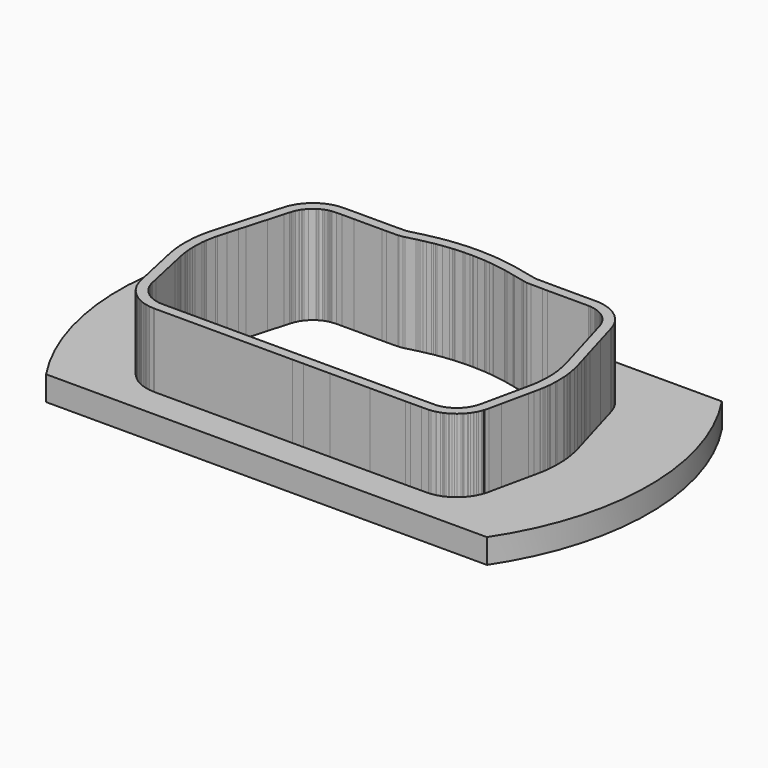
from build123d import *

# Parameters (mm, degrees)
F1_DEPTH      = 5
F4_DEPTH      = 15
F5_DEPTH      = 25
F5_DEPTH_BACK = 25


with BuildPart() as f1:
    # F0 (on Top) → F1 (new body)
    with BuildSketch(Plane.XY):
        with BuildLine():
            Line((45, 30), (-45, 30))
            ThreePointArc((-45, 30), (-54.083269, 0), (-45, -30))
            Line((-45, -30), (45, -30))
            ThreePointArc((45, -30), (54.083269, 0), (45, 30))
        make_face()
    extrude(amount=F1_DEPTH)

    # F3 (on face) → F4 (join)
    with BuildSketch(Plane.XY.offset(5)):
        Polygon((-12.60092, 22.138905), (-13.310995, 22.043471), (-13.332359, 22.039991), (-15.546923, 22.009637), (-16.384097, 22.009637), (-22.090473, 22.013957), (-24.582327, 22.007345), (-25.853259, 22.004321), (-26.724033, 21.917484), (-27.049024, 21.894111), (-27.232065, 21.847317), (-27.283138, 21.836102), (-27.300184, 21.835578), (-27.803103, 21.733435), (-28.070297, 21.644129), (-28.420332, 21.52278), (-28.458282, 21.510949), (-28.823392, 21.391112), (-28.984921, 21.310794), (-29.072821, 21.266532), (-29.606501, 20.988927), (-29.677556, 20.950866), (-29.999262, 20.785094), (-30.337829, 20.528452), (-31.418797, 19.643942), (-31.976757, 18.956358), (-32.101118, 18.823547), (-32.287643, 18.604502), (-32.432905, 18.374267), (-32.57652, 18.146484), (-32.664669, 18.01053), (-32.722842, 17.892029), (-33.016994, 17.287256), (-33.310402, 16.682682), (-33.310402, 16.564845), (-33.328683, 16.513175), (-33.417807, 16.246059), (-33.504949, 15.943516), (-33.8109, 14.88371), (-34.690118, 11.829793), (-35.866997, 7.751915), (-36.27223, 6.343472), (-36.886621, 4.212386), (-37.414571, 2.382691), (-37.439445, 2.283326), (-37.535228, 1.851419), (-37.893149, 0.001246), (-37.913034, -0.087596), (-37.95702, -0.475786), (-37.989425, -0.766086), (-38.04239, -1.2097), (-38.108503, -3.025887), (-38.113063, -3.803012), (-38.085983, -4.572638), (-38.014694, -5.296151), (-37.970828, -5.726282), (-37.941326, -5.994677), (-37.927461, -6.123931), (-37.713978, -7.431579), (-37.665919, -7.6683), (-37.595681, -7.987869), (-37.470707, -8.566062), (-37.243081, -9.611763), (-35.793155, -16.282583), (-35.515065, -17.553009), (-35.437628, -17.862784), (-35.333877, -18.277752), (-35.213138, -18.615774), (-34.839937, -19.554147), (-34.389786, -20.269069), (-34.384786, -20.275065), (-34.300934, -20.409107), (-34.144831, -20.696634), (-33.964377, -20.902126), (-33.820579, -21.074678), (-33.660296, -21.293073), (-33.446911, -21.520485), (-33.318595, -21.632725), (-33.006697, -21.906319), (-32.904517, -21.996245), (-32.472625, -22.376292), (-32.358305, -22.46342), (-32.205531, -22.586957), (-31.592125, -22.960739), (-31.454538, -23.032067), (-31.221001, -23.140381), (-31.178717, -23.159796), (-31.05996, -23.216266), (-31.01657, -23.240943), (-30.890059, -23.304199), (-30.197574, -23.597264), (-30.112211, -23.597264), (-29.756466, -23.719045), (-29.440156, -23.770647), (-29.077344, -23.846689), (-28.705857, -23.922278), (-27.927499, -23.981997), (-27.687002, -23.994139), (0.520208, -23.994139), (2.712736, -23.992768), (8.191312, -23.992768), (16.383828, -23.991396), (23.579418, -23.991396), (24.587477, -23.985826), (26.872509, -23.972049), (28.226396, -23.96244), (28.384645, -23.96244), (28.683799, -23.920677), (29.584692, -23.763884), (29.697036, -23.722437), (30.350476, -23.511768), (30.667225, -23.425079), (30.83143, -23.331309), (30.928474, -23.286483), (31.004242, -23.250342), (31.220227, -23.146167), (31.539814, -23.000385), (31.69379, -22.891802), (31.999622, -22.686187), (32.36683, -22.438993), (32.65733, -22.249482), (33.155648, -21.794709), (33.330286, -21.648721), (33.442787, -21.51872), (33.485288, -21.472625), (33.868754, -21.009788), (33.966028, -20.893552), (34.191374, -20.624184), (34.444603, -20.234075), (34.469946, -20.17796), (34.471845, -20.174824), (34.705318, -19.79885), (34.842586, -19.490269), (34.865037, -19.443605), (35.089958, -18.974131), (35.14484, -18.795384), (35.186551, -18.66795), (35.24356, -18.487427), (35.284793, -18.449631), (35.506507, -17.588403), (36.042095, -15.085369), (37.23584, -9.613986), (37.46239, -8.580617), (37.719338, -7.309642), (37.744883, -7.181718), (37.84351, -6.704793), (37.891183, -6.326253), (37.97485, -5.683211), (38.019005, -5.365921), (38.02944, -5.238612), (38.040282, -5.059044), (38.11391, -3.873954), (38.107191, -3.47815), (38.073728, -1.762468), (38.068615, -1.570749), (37.984162, -0.780461), (37.955884, -0.522243), (37.955884, -0.516706), (37.912138, -0.091753), (37.812454, 0.367634), (37.583915, 1.661058), (37.32446, 2.709912), (36.838691, 4.398703), (36.523604, 5.491957), (36.359398, 6.056001), (35.869499, 7.753015), (34.688365, 11.841773), (33.503769, 15.943291), (33.403281, 16.29264), (33.037754, 17.232804), (32.997103, 17.33922), (32.939275, 17.498248), (32.504276, 18.254853), (32.334984, 18.53679), (32.186263, 18.70572), (31.693187, 19.347598), (31.206632, 19.837201), (31.115018, 19.931678), (30.708688, 20.252793), (30.682393, 20.268428), (30.022078, 20.769572), (29.835633, 20.867329), (29.611669, 20.987401), (29.559315, 21.008343), (29.055621, 21.266747), (28.800632, 21.396778), (28.416597, 21.535057), (28.264739, 21.569322), (28.18451, 21.599232), (27.930691, 21.683224), (27.779606, 21.725664), (27.425424, 21.827531), (27.031993, 21.861098), (26.610718, 21.930657), (26.260681, 21.985519), (25.870123, 22.002081), (25.759933, 22.004557), (17.388073, 22.004557), (16.40499, 22.016638), (13.976908, 22.038593), (13.356625, 22.038593), (12.714592, 22.178708), (12.308552, 22.267981), (10.554909, 22.651844), (10.483616, 22.667672), (10.348982, 22.706665), (10.283916, 22.721452), (10.077728, 22.76776), (8.629278, 23.091105), (8.091992, 23.212427), (7.900544, 23.251552), (5.365324, 23.653787), (5.097514, 23.694365), (4.290946, 23.774016), (3.507211, 23.850416), (3.206544, 23.881071), (1.647876, 23.947946), (0.793376, 23.987781), (0.496354, 23.994313), (-0.020641, 23.99024), (-1.028194, 23.978761), (-1.520042, 23.972794), (-3.069552, 23.874177), (-3.358317, 23.868071), (-3.694416, 23.834323), (-4.251248, 23.772968), (-5.632386, 23.622782), (-6.631644, 23.464191), (-6.913525, 23.419884), (-7.367583, 23.34749), (-7.808181, 23.252481), (-8.962119, 23.006566), (-9.191898, 22.95808), (-9.773963, 22.849164), (-10.183014, 22.74631), (-10.518935, 22.662583), (-12.441825, 22.179872), align=None)
    extrude(amount=F4_DEPTH)

    # F2 (on face) → F5 (cut, two sides)
    with BuildSketch(Plane.XY.offset(5)) as f5_sk:
        Polygon((-13.135432, 20.045705), (-13.187807, 20.042911), (-13.216738, 20.041387), (-15.533218, 20.009637), (-16.384854, 20.009637), (-22.088577, 20.013955), (-24.577294, 20.007351), (-25.751409, 20.004557), (-26.540993, 19.925817), (-26.557529, 19.924293), (-26.727048, 19.912101), (-26.769771, 19.901179), (-26.928242, 19.866381), (-27.019174, 19.843267), (-27.06878, 19.841743), (-27.285137, 19.797801), (-27.425726, 19.750811), (-27.794991, 19.622795), (-27.848763, 19.606031), (-28.062352, 19.535927), (-28.089936, 19.522211), (-28.161564, 19.486143), (-28.672815, 19.220205), (-28.747263, 19.180327), (-28.929152, 19.086601), (-29.100043, 18.957061), (-29.994352, 18.225287), (-30.468418, 17.641087), (-30.608981, 17.490973), (-30.672354, 17.416551), (-30.741264, 17.307331), (-30.89148, 17.069079), (-30.921782, 17.022343), (-30.925897, 17.013961), (-31.218073, 16.413251), (-31.310402, 16.223005), (-31.310402, 16.221481), (-31.437199, 15.863087), (-31.507455, 15.652521), (-31.583249, 15.389377), (-31.889167, 14.329689), (-32.768362, 11.275847), (-33.945195, 7.198131), (-34.35035, 5.789955), (-34.964954, 3.658133), (-35.483089, 1.862455), (-35.492741, 1.823898), (-35.576789, 1.444904), (-35.935082, -0.407187), (-35.93785, -0.419557), (-35.96955, -0.699313), (-36.00262, -0.995578), (-36.046715, -1.364894), (-36.108716, -3.068142), (-36.112856, -3.773703), (-36.089438, -4.439285), (-36.024668, -5.096637), (-35.981945, -5.515559), (-35.953014, -5.778754), (-35.944734, -5.855945), (-35.746309, -7.07136), (-35.709098, -7.254646), (-35.641559, -7.561936), (-35.51616, -8.142097), (-35.288779, -9.186672), (-33.839099, -15.856356), (-33.567624, -17.096562), (-33.497342, -17.377715), (-33.417408, -17.697425), (-33.341615, -17.909616), (-33.049489, -18.644133), (-32.768362, -19.090615), (-32.761479, -19.09887), (-32.572681, -19.400672), (-32.494118, -19.545376), (-32.444512, -19.601866), (-32.24469, -19.841642), (-32.119291, -20.012508), (-32.055918, -20.080046), (-32.000774, -20.128281), (-31.686602, -20.403871), (-31.583249, -20.494828), (-31.204281, -20.828305), (-31.117464, -20.894472), (-31.116092, -20.895843), (-31.051322, -20.948218), (-30.610353, -21.216925), (-30.573116, -21.236229), (-30.382972, -21.324418), (-30.331969, -21.347836), (-30.134916, -21.441537), (-30.074311, -21.476005), (-30.052264, -21.487028), (-29.791787, -21.597264), (-29.779366, -21.597264), (-29.268141, -21.77227), (-29.073831, -21.80397), (-28.672815, -21.888018), (-28.428899, -21.93765), (-27.800554, -21.985859), (-27.636546, -21.994139), (0.519582, -21.994139), (2.71211, -21.992768), (8.191144, -21.992768), (16.38366, -21.991396), (23.573892, -21.991396), (24.575922, -21.985859), (26.859382, -21.972092), (28.219298, -21.96244), (28.245714, -21.96244), (28.373984, -21.944533), (29.062832, -21.824645), (29.088994, -21.814993), (29.112616, -21.809481), (29.779366, -21.594521), (29.89519, -21.562822), (29.914494, -21.551798), (30.078578, -21.476005), (30.139284, -21.447049), (30.370678, -21.335441), (30.539842, -21.258276), (30.5594, -21.244484), (30.88325, -21.026755), (31.261964, -20.771815), (31.428842, -20.662951), (31.83956, -20.288123), (31.923634, -20.217841), (31.951066, -20.186142), (31.979006, -20.15584), (32.331812, -19.730009), (32.432142, -19.610121), (32.579716, -19.433718), (32.684364, -19.272504), (32.69681, -19.244945), (32.766914, -19.129197), (32.933792, -18.860465), (32.9724, -18.773673), (32.980528, -18.747461), (33.062062, -18.577992), (33.221828, -18.244515), (33.238338, -18.190743), (33.282534, -18.055717), (33.49056, -17.396993), (33.49437, -17.377715), (33.495894, -17.376318), (33.559394, -17.129658), (34.087206, -14.662963), (35.282022, -9.186672), (35.505288, -8.168284), (35.758526, -6.915658), (35.784942, -6.783375), (35.869016, -6.376822), (35.90737, -6.072276), (35.992714, -5.416347), (36.030306, -5.146218), (36.03437, -5.096637), (36.044022, -4.936769), (36.112856, -3.828847), (36.107522, -3.514623), (36.074248, -1.808632), (36.071454, -1.703883), (35.995762, -0.995578), (35.965282, -0.717245), (35.955884, -0.627659), (35.955884, -0.619379), (35.93404, -0.407187), (35.849712, -0.018567), (35.626192, 1.246454), (35.392004, 2.193163), (34.91677, 3.845331), (34.602572, 4.935499), (34.438488, 5.499125), (33.948014, 7.198131), (32.766914, 11.286769), (31.582004, 15.389377), (31.506312, 15.652521), (31.17154, 16.513581), (31.123026, 16.640581), (31.118962, 16.651757), (30.779872, 17.241545), (30.713832, 17.351527), (30.640934, 17.434331), (30.18475, 18.028183), (29.779366, 18.436107), (29.771238, 18.444489), (29.57261, 18.601461), (29.563212, 18.607049), (28.945738, 19.075679), (28.898748, 19.100317), (28.765144, 19.171945), (28.730854, 19.185661), (28.671672, 19.215887), (28.144876, 19.486143), (28.004414, 19.557771), (27.85557, 19.611365), (27.75651, 19.633717), (27.694534, 19.647433), (27.520798, 19.712203), (27.345792, 19.770115), (27.232762, 19.801865), (27.06055, 19.851395), (26.78369, 19.875017), (26.292962, 19.956043), (26.062838, 19.992111), (25.805282, 20.003033), (25.737464, 20.004557), (17.375784, 20.004557), (16.38366, 20.016749), (13.967866, 20.038593), (13.215264, 20.038593), (13.14516, 20.044181), (13.110616, 20.048499), (13.058292, 20.056627), (12.28664, 20.225029), (11.879986, 20.314437), (10.124338, 20.698739), (9.988194, 20.728965), (9.848748, 20.769351), (9.84316, 20.770621), (9.640722, 20.816087), (8.191144, 21.139683), (7.67146, 21.257031), (7.543444, 21.283193), (5.058816, 21.677401), (4.849266, 21.709151), (4.095648, 21.783573), (3.308756, 21.860281), (3.062122, 21.885427), (1.558442, 21.949943), (0.724814, 21.988805), (0.482244, 21.994139), (-0.001372, 21.990329), (-1.004672, 21.978899), (-1.444346, 21.973565), (-2.984856, 21.875521), (-3.237078, 21.870187), (-3.484982, 21.845295), (-4.033622, 21.784843), (-5.367376, 21.639809), (-6.319622, 21.488679), (-6.6008, 21.444483), (-6.999072, 21.380983), (-7.388962, 21.296909), (-8.191094, 21.125967), (-8.192364, 21.124951), (-8.801456, 20.996427), (-9.345778, 20.894573), (-9.697314, 20.806181), (-10.03361, 20.722361), (-11.948973, 20.241539), (-12.223191, 20.170927), (-12.24247, 20.168387), (-12.289333, 20.162799), (-13.016941, 20.065009), align=None)
    extrude(amount=F5_DEPTH, mode=Mode.SUBTRACT)
    extrude(f5_sk.sketch, amount=-F5_DEPTH_BACK, mode=Mode.SUBTRACT)


solid = f1.part
